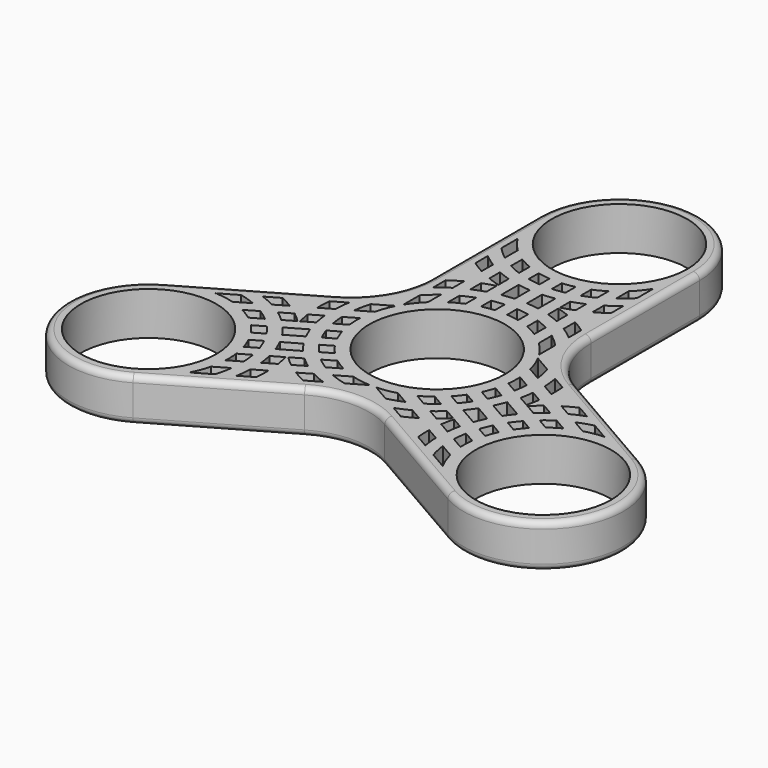
from build123d import *

# Parameters (mm, degrees)
F0_R     = 11
F1_DEPTH = 7
F2_R     = 1
F3_R     = 1


with BuildPart() as f1:
    # F0 (on Top) → F1 (new body)
    with BuildSketch(Plane.XY):
        with BuildLine():
            Line((13, 15.011107), (13, 37))
            ThreePointArc((13, 37), (0, 50), (-13, 37))
            Line((-13, 37), (-13, 15.011107))
            ThreePointArc((-13, 15.011107), (-14.74167, 8.511107), (-19.5, 3.752777))
            Line((-19.5, 3.752777), (-38.54294, -7.24167))
            ThreePointArc((-38.54294, -7.24167), (-43.30127, -25), (-25.54294, -29.75833))
            Line((-25.54294, -29.75833), (-6.5, -18.763884))
            ThreePointArc((-6.5, -18.763884), (0, -17.022214), (6.5, -18.763884))
            Line((6.5, -18.763884), (25.54294, -29.75833))
            ThreePointArc((25.54294, -29.75833), (43.30127, -25), (38.54294, -7.24167))
            Line((38.54294, -7.24167), (19.5, 3.752777))
            ThreePointArc((19.5, 3.752777), (14.74167, 8.511107), (13, 15.011107))
        make_face()
        with Locations((-32.04294, -18.5)):
            Circle(F0_R, mode=Mode.SUBTRACT)
        with BuildLine():
            Line((-17.711179, -22.92726), (-20.54294, -24.562178))
            ThreePointArc((-20.54294, -24.562178), (-19.890562, -23.117327), (-19.418902, -21.603813))
            Line((-19.418902, -21.603813), (-17.150635, -20.294229))
            ThreePointArc((-17.150635, -20.294229), (-17.371719, -21.623345), (-17.711179, -22.92726))
        make_face(mode=Mode.SUBTRACT)
        with BuildLine():
            ThreePointArc((-17.295491, -15.759059), (-17.135122, -16.839591), (-17.053815, -17.928928))
            Line((-17.053815, -17.928928), (-19.056107, -19.084952))
            ThreePointArc((-19.056107, -19.084952), (-19.054349, -17.955484), (-19.150635, -16.830127))
            Line((-19.150635, -16.830127), (-17.295491, -15.759059))
        make_face(mode=Mode.SUBTRACT)
        with BuildLine():
            ThreePointArc((-13.051563, -17.927628), (-13.052579, -19.105133), (-13.126532, -20.280313))
            Line((-13.126532, -20.280313), (-15.317968, -21.545539))
            ThreePointArc((-15.317968, -21.545539), (-15.140554, -20.319165), (-15.052944, -19.083126))
            Line((-15.052944, -19.083126), (-13.051563, -17.927628))
        make_face(mode=Mode.SUBTRACT)
        with BuildLine():
            Line((-17.815018, -13.749607), (-19.588489, -14.773521))
            ThreePointArc((-19.588489, -14.773521), (-19.91642, -13.815183), (-20.317968, -12.885285))
            Line((-20.317968, -12.885285), (-18.581459, -11.882711))
            ThreePointArc((-18.581459, -11.882711), (-18.166806, -12.803255), (-17.815018, -13.749607))
        make_face(mode=Mode.SUBTRACT)
        with BuildLine():
            Line((-13.245881, -15.730417), (-15.126532, -16.816211))
            ThreePointArc((-15.126532, -16.816211), (-15.265905, -15.755718), (-15.471693, -14.706089))
            Line((-15.471693, -14.706089), (-13.668432, -13.664976))
            ThreePointArc((-13.668432, -13.664976), (-13.428487, -14.691831), (-13.245881, -15.730417))
        make_face(mode=Mode.SUBTRACT)
        with BuildLine():
            ThreePointArc((-11.797059, -14.893939), (-12.605197, -14.216504), (-13.374508, -13.495278))
            Line((-13.374508, -13.495278), (-11.571247, -12.454165))
            ThreePointArc((-11.571247, -12.454165), (-10.765136, -13.157198), (-9.916408, -13.808145))
            Line((-9.916408, -13.808145), (-11.797059, -14.893939))
        make_face(mode=Mode.SUBTRACT)
        with BuildLine():
            ThreePointArc((-7.916408, -17.272246), (-8.97112, -16.748701), (-9.991377, -16.160829))
            Line((-9.991377, -16.160829), (-7.989996, -15.005331))
            ThreePointArc((-7.989996, -15.005331), (-6.87575, -15.547478), (-5.724972, -16.00702))
            Line((-5.724972, -16.00702), (-7.916408, -17.272246))
        make_face(mode=Mode.SUBTRACT)
        with BuildLine():
            ThreePointArc((-7.989125, -12.695427), (-8.891866, -12.080345), (-9.747449, -11.401195))
            Line((-9.747449, -11.401195), (-7.892305, -10.330127))
            ThreePointArc((-7.892305, -10.330127), (-6.96586, -10.976192), (-5.986833, -11.539403))
            Line((-5.986833, -11.539403), (-7.989125, -12.695427))
        make_face(mode=Mode.SUBTRACT)
        with BuildLine():
            Line((-0.5, -12.990381), (-3.331761, -14.625299))
            ThreePointArc((-3.331761, -14.625299), (-4.630714, -14.267322), (-5.892305, -13.794229))
            Line((-5.892305, -13.794229), (-3.624038, -12.484644))
            ThreePointArc((-3.624038, -12.484644), (-2.077466, -12.832932), (-0.5, -12.990381))
        make_face(mode=Mode.SUBTRACT)
        with BuildLine():
            Line((-22.295491, -7.098805), (-24.150635, -8.169873))
            ThreePointArc((-24.150635, -8.169873), (-25.07708, -7.523808), (-26.056107, -6.960597))
            Line((-26.056107, -6.960597), (-24.053815, -5.804573))
            ThreePointArc((-24.053815, -5.804573), (-23.151074, -6.419655), (-22.295491, -7.098805))
        make_face(mode=Mode.SUBTRACT)
        with BuildLine():
            ThreePointArc((-28.418902, -6.015356), (-29.965474, -5.667068), (-31.54294, -5.509619))
            Line((-31.54294, -5.509619), (-28.711179, -3.874701))
            ThreePointArc((-28.711179, -3.874701), (-27.412225, -4.232678), (-26.150635, -4.705771))
            Line((-26.150635, -4.705771), (-28.418902, -6.015356))
        make_face(mode=Mode.SUBTRACT)
        with BuildLine():
            ThreePointArc((-24.052944, -3.494669), (-25.16719, -2.952522), (-26.317968, -2.49298))
            Line((-26.317968, -2.49298), (-24.126532, -1.227754))
            ThreePointArc((-24.126532, -1.227754), (-23.07182, -1.751299), (-22.051563, -2.339171))
            Line((-22.051563, -2.339171), (-24.052944, -3.494669))
        make_face(mode=Mode.SUBTRACT)
        with BuildLine():
            ThreePointArc((-21.317968, -11.153234), (-21.922509, -10.340534), (-22.588489, -9.577368))
            Line((-22.588489, -9.577368), (-20.815018, -8.553455))
            ThreePointArc((-20.815018, -8.553455), (-20.171347, -9.331288), (-19.581459, -10.15066))
            Line((-19.581459, -10.15066), (-21.317968, -11.153234))
        make_face(mode=Mode.SUBTRACT)
        with BuildLine():
            ThreePointArc((-17.846001, -9.148693), (-18.424869, -8.324139), (-19.051563, -7.535324))
            Line((-19.051563, -7.535324), (-15.991377, -5.768524))
            ThreePointArc((-15.991377, -5.768524), (-15.621589, -6.705665), (-15.196938, -7.619256))
            Line((-15.196938, -7.619256), (-17.846001, -9.148693))
        make_face(mode=Mode.SUBTRACT)
        with BuildLine():
            Line((-12.991377, -10.964676), (-16.051563, -12.731476))
            ThreePointArc((-16.051563, -12.731476), (-16.421351, -11.794335), (-16.846001, -10.880744))
            Line((-16.846001, -10.880744), (-14.196938, -9.351307))
            ThreePointArc((-14.196938, -9.351307), (-13.618071, -10.175861), (-12.991377, -10.964676))
        make_face(mode=Mode.SUBTRACT)
        with BuildLine():
            ThreePointArc((-20.471693, -6.045835), (-21.277804, -5.342802), (-22.126532, -4.691855))
            Line((-22.126532, -4.691855), (-20.245881, -3.606061))
            ThreePointArc((-20.245881, -3.606061), (-19.437743, -4.283496), (-18.668432, -5.004722))
            Line((-18.668432, -5.004722), (-20.471693, -6.045835))
        make_face(mode=Mode.SUBTRACT)
        with BuildLine():
            Line((-18.797059, -2.769583), (-16.916408, -1.683789))
            ThreePointArc((-16.916408, -1.683789), (-16.777035, -2.744282), (-16.571247, -3.793911))
            Line((-16.571247, -3.793911), (-18.374508, -4.835024))
            ThreePointArc((-18.374508, -4.835024), (-18.614453, -3.808169), (-18.797059, -2.769583))
        make_face(mode=Mode.SUBTRACT)
        with BuildLine():
            Line((-11.724972, -5.614715), (-13.461481, -6.617289))
            ThreePointArc((-13.461481, -6.617289), (-13.876134, -5.696745), (-14.227922, -4.750393))
            Line((-14.227922, -4.750393), (-12.454451, -3.726479))
            ThreePointArc((-12.454451, -3.726479), (-12.12652, -4.684817), (-11.724972, -5.614715))
        make_face(mode=Mode.SUBTRACT)
        with BuildLine():
            Line((-12.892305, -1.669873), (-14.747449, -2.740941))
            ThreePointArc((-14.747449, -2.740941), (-14.907818, -1.660409), (-14.989125, -0.571072))
            Line((-14.989125, -0.571072), (-12.986833, 0.584952))
            ThreePointArc((-12.986833, 0.584952), (-12.988591, -0.544516), (-12.892305, -1.669873))
        make_face(mode=Mode.SUBTRACT)
        with BuildLine():
            Line((-9.454451, -8.922632), (-11.227922, -9.946545))
            ThreePointArc((-11.227922, -9.946545), (-11.871593, -9.168712), (-12.461481, -8.34934))
            Line((-12.461481, -8.34934), (-10.724972, -7.346766))
            ThreePointArc((-10.724972, -7.346766), (-10.120431, -8.159466), (-9.454451, -8.922632))
        make_face(mode=Mode.SUBTRACT)
        with BuildLine():
            ThreePointArc((-18.991377, -0.572372), (-18.990361, 0.605133), (-18.916408, 1.780313))
            Line((-18.916408, 1.780313), (-16.724972, 3.045539))
            ThreePointArc((-16.724972, 3.045539), (-16.902386, 1.819165), (-16.989996, 0.583126))
            Line((-16.989996, 0.583126), (-18.991377, -0.572372))
        make_face(mode=Mode.SUBTRACT)
        with BuildLine():
            ThreePointArc((-14.892305, 1.794229), (-14.671221, 3.123345), (-14.331761, 4.42726))
            Line((-14.331761, 4.42726), (-11.5, 6.062178))
            ThreePointArc((-11.5, 6.062178), (-12.152378, 4.617327), (-12.624038, 3.103813))
            Line((-12.624038, 3.103813), (-14.892305, 1.794229))
        make_face(mode=Mode.SUBTRACT)
        with BuildLine():
            ThreePointArc((19.418902, -21.603813), (19.890562, -23.117327), (20.54294, -24.562178))
            Line((20.54294, -24.562178), (17.711179, -22.92726))
            ThreePointArc((17.711179, -22.92726), (17.371719, -21.623345), (17.150635, -20.294229))
            Line((17.150635, -20.294229), (19.418902, -21.603813))
        make_face(mode=Mode.SUBTRACT)
        with BuildLine():
            ThreePointArc((5.892305, -13.794229), (4.630714, -14.267322), (3.331761, -14.625299))
            Line((3.331761, -14.625299), (0.5, -12.990381))
            ThreePointArc((0.5, -12.990381), (2.077466, -12.832932), (3.624038, -12.484644))
            Line((3.624038, -12.484644), (5.892305, -13.794229))
        make_face(mode=Mode.SUBTRACT)
        with BuildLine():
            ThreePointArc((9.991377, -16.160829), (8.97112, -16.748701), (7.916408, -17.272246))
            Line((7.916408, -17.272246), (5.724972, -16.00702))
            ThreePointArc((5.724972, -16.00702), (6.87575, -15.547478), (7.989996, -15.005331))
            Line((7.989996, -15.005331), (9.991377, -16.160829))
        make_face(mode=Mode.SUBTRACT)
        with BuildLine():
            Line((7.892305, -10.330127), (9.747449, -11.401195))
            ThreePointArc((9.747449, -11.401195), (8.891866, -12.080345), (7.989125, -12.695427))
            Line((7.989125, -12.695427), (5.986833, -11.539403))
            ThreePointArc((5.986833, -11.539403), (6.96586, -10.976192), (7.892305, -10.330127))
        make_face(mode=Mode.SUBTRACT)
        with BuildLine():
            ThreePointArc((15.052944, -19.083126), (15.140554, -20.319165), (15.317968, -21.545539))
            Line((15.317968, -21.545539), (13.126532, -20.280313))
            ThreePointArc((13.126532, -20.280313), (13.052579, -19.105133), (13.051563, -17.927628))
            Line((13.051563, -17.927628), (15.052944, -19.083126))
        make_face(mode=Mode.SUBTRACT)
        with BuildLine():
            Line((17.295491, -15.759059), (19.150635, -16.830127))
            ThreePointArc((19.150635, -16.830127), (19.054349, -17.955484), (19.056107, -19.084952))
            Line((19.056107, -19.084952), (17.053815, -17.928928))
            ThreePointArc((17.053815, -17.928928), (17.135122, -16.839591), (17.295491, -15.759059))
        make_face(mode=Mode.SUBTRACT)
        with BuildLine():
            Line((11.797059, -14.893939), (9.916408, -13.808145))
            ThreePointArc((9.916408, -13.808145), (10.765136, -13.157198), (11.571247, -12.454165))
            Line((11.571247, -12.454165), (13.374508, -13.495278))
            ThreePointArc((13.374508, -13.495278), (12.605197, -14.216504), (11.797059, -14.893939))
        make_face(mode=Mode.SUBTRACT)
        with BuildLine():
            ThreePointArc((15.471693, -14.706089), (15.265905, -15.755718), (15.126532, -16.816211))
            Line((15.126532, -16.816211), (13.245881, -15.730417))
            ThreePointArc((13.245881, -15.730417), (13.428487, -14.691831), (13.668432, -13.664976))
            Line((13.668432, -13.664976), (15.471693, -14.706089))
        make_face(mode=Mode.SUBTRACT)
        with BuildLine():
            ThreePointArc((20.317968, -12.885285), (19.91642, -13.815183), (19.588489, -14.773521))
            Line((19.588489, -14.773521), (17.815018, -13.749607))
            ThreePointArc((17.815018, -13.749607), (18.166806, -12.803255), (18.581459, -11.882711))
            Line((18.581459, -11.882711), (20.317968, -12.885285))
        make_face(mode=Mode.SUBTRACT)
        with Locations((32.04294, -18.5)):
            Circle(F0_R, mode=Mode.SUBTRACT)
        with BuildLine():
            Line((10.724972, -7.346766), (12.461481, -8.34934))
            ThreePointArc((12.461481, -8.34934), (11.871593, -9.168712), (11.227922, -9.946545))
            Line((11.227922, -9.946545), (9.454451, -8.922632))
            ThreePointArc((9.454451, -8.922632), (10.120431, -8.159466), (10.724972, -7.346766))
        make_face(mode=Mode.SUBTRACT)
        with BuildLine():
            ThreePointArc((16.846001, -10.880744), (16.421351, -11.794335), (16.051563, -12.731476))
            Line((16.051563, -12.731476), (12.991377, -10.964676))
            ThreePointArc((12.991377, -10.964676), (13.618071, -10.175861), (14.196938, -9.351307))
            Line((14.196938, -9.351307), (16.846001, -10.880744))
        make_face(mode=Mode.SUBTRACT)
        with BuildLine():
            Line((20.815018, -8.553455), (22.588489, -9.577368))
            ThreePointArc((22.588489, -9.577368), (21.922509, -10.340534), (21.317968, -11.153234))
            Line((21.317968, -11.153234), (19.581459, -10.15066))
            ThreePointArc((19.581459, -10.15066), (20.171347, -9.331288), (20.815018, -8.553455))
        make_face(mode=Mode.SUBTRACT)
        with BuildLine():
            Line((15.991377, -5.768524), (19.051563, -7.535324))
            ThreePointArc((19.051563, -7.535324), (18.424869, -8.324139), (17.846001, -9.148693))
            Line((17.846001, -9.148693), (15.196938, -7.619256))
            ThreePointArc((15.196938, -7.619256), (15.621589, -6.705665), (15.991377, -5.768524))
        make_face(mode=Mode.SUBTRACT)
        with BuildLine():
            Line((12.454451, -3.726479), (14.227922, -4.750393))
            ThreePointArc((14.227922, -4.750393), (13.876134, -5.696745), (13.461481, -6.617289))
            Line((13.461481, -6.617289), (11.724972, -5.614715))
            ThreePointArc((11.724972, -5.614715), (12.12652, -4.684817), (12.454451, -3.726479))
        make_face(mode=Mode.SUBTRACT)
        with BuildLine():
            ThreePointArc((14.989125, -0.571072), (14.907818, -1.660409), (14.747449, -2.740941))
            Line((14.747449, -2.740941), (12.892305, -1.669873))
            ThreePointArc((12.892305, -1.669873), (12.988591, -0.544516), (12.986833, 0.584952))
            Line((12.986833, 0.584952), (14.989125, -0.571072))
        make_face(mode=Mode.SUBTRACT)
        with BuildLine():
            Line((20.245881, -3.606061), (22.126532, -4.691855))
            ThreePointArc((22.126532, -4.691855), (21.277804, -5.342802), (20.471693, -6.045835))
            Line((20.471693, -6.045835), (18.668432, -5.004722))
            ThreePointArc((18.668432, -5.004722), (19.437743, -4.283496), (20.245881, -3.606061))
        make_face(mode=Mode.SUBTRACT)
        with BuildLine():
            ThreePointArc((18.797059, -2.769583), (18.614453, -3.808169), (18.374508, -4.835024))
            Line((18.374508, -4.835024), (16.571247, -3.793911))
            ThreePointArc((16.571247, -3.793911), (16.777035, -2.744282), (16.916408, -1.683789))
            Line((16.916408, -1.683789), (18.797059, -2.769583))
        make_face(mode=Mode.SUBTRACT)
        Circle(F0_R, mode=Mode.SUBTRACT)
        with BuildLine():
            Line((11.5, 6.062178), (14.331761, 4.42726))
            ThreePointArc((14.331761, 4.42726), (14.671221, 3.123345), (14.892305, 1.794229))
            Line((14.892305, 1.794229), (12.624038, 3.103813))
            ThreePointArc((12.624038, 3.103813), (12.152378, 4.617327), (11.5, 6.062178))
        make_face(mode=Mode.SUBTRACT)
        with BuildLine():
            ThreePointArc((18.916408, 1.780313), (18.990361, 0.605133), (18.991377, -0.572372))
            Line((18.991377, -0.572372), (16.989996, 0.583126))
            ThreePointArc((16.989996, 0.583126), (16.902386, 1.819165), (16.724972, 3.045539))
            Line((16.724972, 3.045539), (18.916408, 1.780313))
        make_face(mode=Mode.SUBTRACT)
        with BuildLine():
            ThreePointArc((22.295491, -7.098805), (23.151074, -6.419655), (24.053815, -5.804573))
            Line((24.053815, -5.804573), (26.056107, -6.960597))
            ThreePointArc((26.056107, -6.960597), (25.07708, -7.523808), (24.150635, -8.169873))
            Line((24.150635, -8.169873), (22.295491, -7.098805))
        make_face(mode=Mode.SUBTRACT)
        with BuildLine():
            ThreePointArc((22.051563, -2.339171), (23.07182, -1.751299), (24.126532, -1.227754))
            Line((24.126532, -1.227754), (26.317968, -2.49298))
            ThreePointArc((26.317968, -2.49298), (25.16719, -2.952522), (24.052944, -3.494669))
            Line((24.052944, -3.494669), (22.051563, -2.339171))
        make_face(mode=Mode.SUBTRACT)
        with BuildLine():
            Line((28.711179, -3.874701), (31.54294, -5.509619))
            ThreePointArc((31.54294, -5.509619), (29.965474, -5.667068), (28.418902, -6.015356))
            Line((28.418902, -6.015356), (26.150635, -4.705771))
            ThreePointArc((26.150635, -4.705771), (27.412225, -4.232678), (28.711179, -3.874701))
        make_face(mode=Mode.SUBTRACT)
        with BuildLine():
            Line((-9, 12), (-9, 9.380832))
            ThreePointArc((-9, 9.380832), (-10.074912, 8.215604), (-11, 6.928203))
            Line((-11, 6.928203), (-11, 10.198039))
            ThreePointArc((-11, 10.198039), (-10.040506, 11.143977), (-9, 12))
        make_face(mode=Mode.SUBTRACT)
        with BuildLine():
            Line((-5, 14.142136), (-5, 12))
            ThreePointArc((-5, 12), (-6.022731, 11.520708), (-7, 10.954451))
            Line((-7, 10.954451), (-7, 13.266499))
            ThreePointArc((-7, 13.266499), (-6.015953, 13.740754), (-5, 14.142136))
        make_face(mode=Mode.SUBTRACT)
        with BuildLine():
            Line((-1, 14.96663), (-1, 12.961481))
            ThreePointArc((-1, 12.961481), (-2.006089, 12.844283), (-3, 12.649111))
            Line((-3, 12.649111), (-3, 14.696938))
            ThreePointArc((-3, 14.696938), (-2.004541, 14.865457), (-1, 14.96663))
        make_face(mode=Mode.SUBTRACT)
        with BuildLine():
            Line((-9, 16.733201), (-9, 14.422205))
            ThreePointArc((-9, 14.422205), (-10.026636, 13.728313), (-11, 12.961481))
            Line((-11, 12.961481), (-11, 15.491933))
            ThreePointArc((-11, 15.491933), (-10.019241, 16.143569), (-9, 16.733201))
        make_face(mode=Mode.SUBTRACT)
        with BuildLine():
            Line((-5, 18.330303), (-5, 16.248077))
            ThreePointArc((-5, 16.248077), (-6.0119, 15.90148), (-7, 15.491933))
            Line((-7, 15.491933), (-7, 17.663522))
            ThreePointArc((-7, 17.663522), (-6.009255, 18.024673), (-5, 18.330303))
        make_face(mode=Mode.SUBTRACT)
        with BuildLine():
            Line((-3, 16.733201), (-3, 20.266799))
            ThreePointArc((-3, 20.266799), (-2.003518, 20.118474), (-1, 20.029437))
            Line((-1, 20.029437), (-1, 16.970563))
            ThreePointArc((-1, 16.970563), (-2.003518, 16.881526), (-3, 16.733201))
        make_face(mode=Mode.SUBTRACT)
        with BuildLine():
            Line((-7, 19.336478), (-7, 21.508067))
            ThreePointArc((-7, 21.508067), (-6.0119, 21.09852), (-5, 20.751923))
            Line((-5, 20.751923), (-5, 18.669697))
            ThreePointArc((-5, 18.669697), (-6.009255, 18.975327), (-7, 19.336478))
        make_face(mode=Mode.SUBTRACT)
        with BuildLine():
            Line((-11, 21.508067), (-11, 24.038519))
            ThreePointArc((-11, 24.038519), (-10.026636, 23.271687), (-9, 22.577795))
            Line((-9, 22.577795), (-9, 20.266799))
            ThreePointArc((-9, 20.266799), (-10.019241, 20.856431), (-11, 21.508067))
        make_face(mode=Mode.SUBTRACT)
        with BuildLine():
            Line((-7, 23.733501), (-7, 26.045549))
            ThreePointArc((-7, 26.045549), (-6.022731, 25.479292), (-5, 25))
            Line((-5, 25), (-5, 22.857864))
            ThreePointArc((-5, 22.857864), (-6.015953, 23.259246), (-7, 23.733501))
        make_face(mode=Mode.SUBTRACT)
        with BuildLine():
            Line((-3, 22.303062), (-3, 24.350889))
            ThreePointArc((-3, 24.350889), (-2.006089, 24.155717), (-1, 24.038519))
            Line((-1, 24.038519), (-1, 22.03337))
            ThreePointArc((-1, 22.03337), (-2.004541, 22.134543), (-3, 22.303062))
        make_face(mode=Mode.SUBTRACT)
        with BuildLine():
            Line((-11, 26.801961), (-11, 30.071797))
            ThreePointArc((-11, 30.071797), (-10.074912, 28.784396), (-9, 27.619168))
            Line((-9, 27.619168), (-9, 25))
            ThreePointArc((-9, 25), (-10.040506, 25.856023), (-11, 26.801961))
        make_face(mode=Mode.SUBTRACT)
        with BuildLine():
            Line((3, 14.696938), (3, 12.649111))
            ThreePointArc((3, 12.649111), (2.006089, 12.844283), (1, 12.961481))
            Line((1, 12.961481), (1, 14.96663))
            ThreePointArc((1, 14.96663), (2.004541, 14.865457), (3, 14.696938))
        make_face(mode=Mode.SUBTRACT)
        with BuildLine():
            ThreePointArc((9, 12), (10.040506, 11.143977), (11, 10.198039))
            Line((11, 10.198039), (11, 6.928203))
            ThreePointArc((11, 6.928203), (10.074912, 8.215604), (9, 9.380832))
            Line((9, 9.380832), (9, 12))
        make_face(mode=Mode.SUBTRACT)
        with BuildLine():
            Line((7, 13.266499), (7, 10.954451))
            ThreePointArc((7, 10.954451), (6.022731, 11.520708), (5, 12))
            Line((5, 12), (5, 14.142136))
            ThreePointArc((5, 14.142136), (6.015953, 13.740754), (7, 13.266499))
        make_face(mode=Mode.SUBTRACT)
        with BuildLine():
            Line((1, 16.970563), (1, 20.029437))
            ThreePointArc((1, 20.029437), (2.003518, 20.118474), (3, 20.266799))
            Line((3, 20.266799), (3, 16.733201))
            ThreePointArc((3, 16.733201), (2.003518, 16.881526), (1, 16.970563))
        make_face(mode=Mode.SUBTRACT)
        with BuildLine():
            Line((11, 15.491933), (11, 12.961481))
            ThreePointArc((11, 12.961481), (10.026636, 13.728313), (9, 14.422205))
            Line((9, 14.422205), (9, 16.733201))
            ThreePointArc((9, 16.733201), (10.019241, 16.143569), (11, 15.491933))
        make_face(mode=Mode.SUBTRACT)
        with BuildLine():
            Line((7, 17.663522), (7, 15.491933))
            ThreePointArc((7, 15.491933), (6.0119, 15.90148), (5, 16.248077))
            Line((5, 16.248077), (5, 18.330303))
            ThreePointArc((5, 18.330303), (6.009255, 18.024673), (7, 17.663522))
        make_face(mode=Mode.SUBTRACT)
        with BuildLine():
            Line((1, 22.03337), (1, 24.038519))
            ThreePointArc((1, 24.038519), (2.006089, 24.155717), (3, 24.350889))
            Line((3, 24.350889), (3, 22.303062))
            ThreePointArc((3, 22.303062), (2.004541, 22.134543), (1, 22.03337))
        make_face(mode=Mode.SUBTRACT)
        with BuildLine():
            Line((5, 18.669697), (5, 20.751923))
            ThreePointArc((5, 20.751923), (6.0119, 21.09852), (7, 21.508067))
            Line((7, 21.508067), (7, 19.336478))
            ThreePointArc((7, 19.336478), (6.009255, 18.975327), (5, 18.669697))
        make_face(mode=Mode.SUBTRACT)
        with BuildLine():
            Line((5, 22.857864), (5, 25))
            ThreePointArc((5, 25), (6.022731, 25.479292), (7, 26.045549))
            Line((7, 26.045549), (7, 23.733501))
            ThreePointArc((7, 23.733501), (6.015953, 23.259246), (5, 22.857864))
        make_face(mode=Mode.SUBTRACT)
        with BuildLine():
            Line((9, 20.266799), (9, 22.577795))
            ThreePointArc((9, 22.577795), (10.026636, 23.271687), (11, 24.038519))
            Line((11, 24.038519), (11, 21.508067))
            ThreePointArc((11, 21.508067), (10.019241, 20.856431), (9, 20.266799))
        make_face(mode=Mode.SUBTRACT)
        with BuildLine():
            Line((9, 25), (9, 27.619168))
            ThreePointArc((9, 27.619168), (10.074912, 28.784396), (11, 30.071797))
            Line((11, 30.071797), (11, 26.801961))
            ThreePointArc((11, 26.801961), (10.040506, 25.856023), (9, 25))
        make_face(mode=Mode.SUBTRACT)
        with Locations((0, 37)):
            Circle(F0_R, mode=Mode.SUBTRACT)
    extrude(amount=F1_DEPTH)

    # F2
    f2_edges = [f1.edges().sort_by_distance(p)[0] for p in [
        (0, 50, 7),
    ]]
    fillet(f2_edges, radius=F2_R)

    # F3
    f3_edges = [f1.edges().sort_by_distance(p)[0] for p in [
        (-43.30127, -25, 0),
    ]]
    fillet(f3_edges, radius=F3_R)


solid = f1.part
